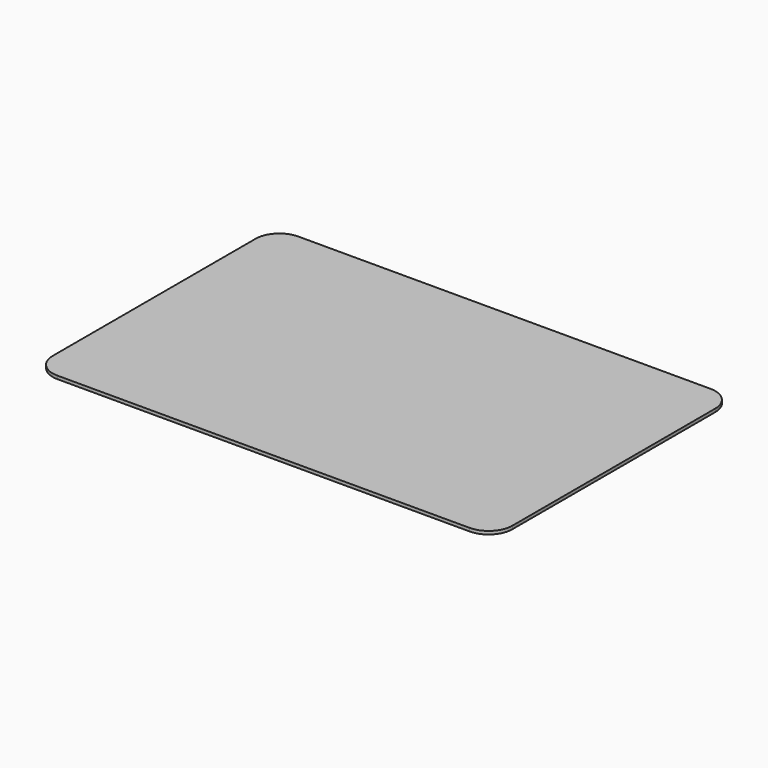
from build123d import *

# Parameters (mm, degrees)
F1_DEPTH = 2


with BuildPart() as f1:
    # F0 (on Top) → F1 (new body)
    with BuildSketch(Plane.XY):
        with BuildLine():
            ThreePointArc((-145, -80), (-140.606602, -90.606602), (-130, -95))
            Line((-130, -95), (130, -95))
            ThreePointArc((130, -95), (140.606602, -90.606602), (145, -80))
            Line((145, -80), (145, 80))
            ThreePointArc((145, 80), (140.606602, 90.606602), (130, 95))
            Line((130, 95), (-130, 95))
            ThreePointArc((-130, 95), (-140.606602, 90.606602), (-145, 80))
            Line((-145, 80), (-145, -80))
        make_face()
        with BuildLine():
            ThreePointArc((-135, -40), (-133.535534, -36.464466), (-130, -35))
            Line((-130, -35), (-94, -35))
            ThreePointArc((-94, -35), (-90.464466, -36.464466), (-89, -40))
            Line((-89, -40), (-89, -80))
            ThreePointArc((-89, -80), (-90.464466, -83.535534), (-94, -85))
            Line((-94, -85), (-130, -85))
            ThreePointArc((-130, -85), (-133.535534, -83.535534), (-135, -80))
            Line((-135, -80), (-135, -40))
        make_face(mode=Mode.SUBTRACT)
        with BuildLine():
            ThreePointArc((-79, -40), (-77.535534, -36.464466), (-74, -35))
            Line((-74, -35), (-38, -35))
            ThreePointArc((-38, -35), (-34.464466, -36.464466), (-33, -40))
            Line((-33, -40), (-33, -80))
            ThreePointArc((-33, -80), (-34.464466, -83.535534), (-38, -85))
            Line((-38, -85), (-74, -85))
            ThreePointArc((-74, -85), (-77.535534, -83.535534), (-79, -80))
            Line((-79, -80), (-79, -40))
        make_face(mode=Mode.SUBTRACT)
        with BuildLine():
            ThreePointArc((-23, -40), (-21.535534, -36.464466), (-18, -35))
            Line((-18, -35), (18, -35))
            ThreePointArc((18, -35), (21.535534, -36.464466), (23, -40))
            Line((23, -40), (23, -80))
            ThreePointArc((23, -80), (21.535534, -83.535534), (18, -85))
            Line((18, -85), (-18, -85))
            ThreePointArc((-18, -85), (-21.535534, -83.535534), (-23, -80))
            Line((-23, -80), (-23, -40))
        make_face(mode=Mode.SUBTRACT)
        with BuildLine():
            ThreePointArc((33, -40), (34.464466, -36.464466), (38, -35))
            Line((38, -35), (74, -35))
            ThreePointArc((74, -35), (77.535534, -36.464466), (79, -40))
            Line((79, -40), (79, -80))
            ThreePointArc((79, -80), (77.535534, -83.535534), (74, -85))
            Line((74, -85), (38, -85))
            ThreePointArc((38, -85), (34.464466, -83.535534), (33, -80))
            Line((33, -80), (33, -40))
        make_face(mode=Mode.SUBTRACT)
        with BuildLine():
            ThreePointArc((89, -40), (90.464466, -36.464466), (94, -35))
            Line((94, -35), (130, -35))
            ThreePointArc((130, -35), (133.535534, -36.464466), (135, -40))
            Line((135, -40), (135, -80))
            ThreePointArc((135, -80), (133.535534, -83.535534), (130, -85))
            Line((130, -85), (94, -85))
            ThreePointArc((94, -85), (90.464466, -83.535534), (89, -80))
            Line((89, -80), (89, -40))
        make_face(mode=Mode.SUBTRACT)
        with BuildLine():
            ThreePointArc((-135, 20), (-133.535534, 23.535534), (-130, 25))
            Line((-130, 25), (-94, 25))
            ThreePointArc((-94, 25), (-90.464466, 23.535534), (-89, 20))
            Line((-89, 20), (-89, -20))
            ThreePointArc((-89, -20), (-90.464466, -23.535534), (-94, -25))
            Line((-94, -25), (-130, -25))
            ThreePointArc((-130, -25), (-133.535534, -23.535534), (-135, -20))
            Line((-135, -20), (-135, 20))
        make_face(mode=Mode.SUBTRACT)
        with BuildLine():
            ThreePointArc((-79, 20), (-77.535534, 23.535534), (-74, 25))
            Line((-74, 25), (-38, 25))
            ThreePointArc((-38, 25), (-34.464466, 23.535534), (-33, 20))
            Line((-33, 20), (-33, -20))
            ThreePointArc((-33, -20), (-34.464466, -23.535534), (-38, -25))
            Line((-38, -25), (-74, -25))
            ThreePointArc((-74, -25), (-77.535534, -23.535534), (-79, -20))
            Line((-79, -20), (-79, 20))
        make_face(mode=Mode.SUBTRACT)
        with BuildLine():
            ThreePointArc((-89, 40), (-90.464466, 36.464466), (-94, 35))
            Line((-94, 35), (-130, 35))
            ThreePointArc((-130, 35), (-133.535534, 36.464466), (-135, 40))
            Line((-135, 40), (-135, 80))
            ThreePointArc((-135, 80), (-133.535534, 83.535534), (-130, 85))
            Line((-130, 85), (-94, 85))
            ThreePointArc((-94, 85), (-90.464466, 83.535534), (-89, 80))
            Line((-89, 80), (-89, 40))
        make_face(mode=Mode.SUBTRACT)
        with BuildLine():
            ThreePointArc((-79, 80), (-77.535534, 83.535534), (-74, 85))
            Line((-74, 85), (-38, 85))
            ThreePointArc((-38, 85), (-34.464466, 83.535534), (-33, 80))
            Line((-33, 80), (-33, 40))
            ThreePointArc((-33, 40), (-34.464466, 36.464466), (-38, 35))
            Line((-38, 35), (-74, 35))
            ThreePointArc((-74, 35), (-77.535534, 36.464466), (-79, 40))
            Line((-79, 40), (-79, 80))
        make_face(mode=Mode.SUBTRACT)
        with BuildLine():
            ThreePointArc((-23, 20), (-21.535534, 23.535534), (-18, 25))
            Line((-18, 25), (18, 25))
            ThreePointArc((18, 25), (21.535534, 23.535534), (23, 20))
            Line((23, 20), (23, -20))
            ThreePointArc((23, -20), (21.535534, -23.535534), (18, -25))
            Line((18, -25), (-18, -25))
            ThreePointArc((-18, -25), (-21.535534, -23.535534), (-23, -20))
            Line((-23, -20), (-23, 20))
        make_face(mode=Mode.SUBTRACT)
        with BuildLine():
            ThreePointArc((33, 20), (34.464466, 23.535534), (38, 25))
            Line((38, 25), (74, 25))
            ThreePointArc((74, 25), (77.535534, 23.535534), (79, 20))
            Line((79, 20), (79, -20))
            ThreePointArc((79, -20), (77.535534, -23.535534), (74, -25))
            Line((74, -25), (38, -25))
            ThreePointArc((38, -25), (34.464466, -23.535534), (33, -20))
            Line((33, -20), (33, 20))
        make_face(mode=Mode.SUBTRACT)
        with BuildLine():
            ThreePointArc((89, 20), (90.464466, 23.535534), (94, 25))
            Line((94, 25), (130, 25))
            ThreePointArc((130, 25), (133.535534, 23.535534), (135, 20))
            Line((135, 20), (135, -20))
            ThreePointArc((135, -20), (133.535534, -23.535534), (130, -25))
            Line((130, -25), (94, -25))
            ThreePointArc((94, -25), (90.464466, -23.535534), (89, -20))
            Line((89, -20), (89, 20))
        make_face(mode=Mode.SUBTRACT)
        with BuildLine():
            ThreePointArc((-23, 80), (-21.535534, 83.535534), (-18, 85))
            Line((-18, 85), (18, 85))
            ThreePointArc((18, 85), (21.535534, 83.535534), (23, 80))
            Line((23, 80), (23, 40))
            ThreePointArc((23, 40), (21.535534, 36.464466), (18, 35))
            Line((18, 35), (-18, 35))
            ThreePointArc((-18, 35), (-21.535534, 36.464466), (-23, 40))
            Line((-23, 40), (-23, 80))
        make_face(mode=Mode.SUBTRACT)
        with BuildLine():
            ThreePointArc((33, 80), (34.464466, 83.535534), (38, 85))
            Line((38, 85), (74, 85))
            ThreePointArc((74, 85), (77.535534, 83.535534), (79, 80))
            Line((79, 80), (79, 40))
            ThreePointArc((79, 40), (77.535534, 36.464466), (74, 35))
            Line((74, 35), (38, 35))
            ThreePointArc((38, 35), (34.464466, 36.464466), (33, 40))
            Line((33, 40), (33, 80))
        make_face(mode=Mode.SUBTRACT)
        with BuildLine():
            ThreePointArc((89, 80), (90.464466, 83.535534), (94, 85))
            Line((94, 85), (130, 85))
            ThreePointArc((130, 85), (133.535534, 83.535534), (135, 80))
            Line((135, 80), (135, 40))
            ThreePointArc((135, 40), (133.535534, 36.464466), (130, 35))
            Line((130, 35), (94, 35))
            ThreePointArc((94, 35), (90.464466, 36.464466), (89, 40))
            Line((89, 40), (89, 80))
        make_face(mode=Mode.SUBTRACT)
        with BuildLine():
            Line((130, -35), (94, -35))
            ThreePointArc((94, -35), (90.464466, -36.464466), (89, -40))
            Line((89, -40), (89, -80))
            ThreePointArc((89, -80), (90.464466, -83.535534), (94, -85))
            Line((94, -85), (130, -85))
            ThreePointArc((130, -85), (133.535534, -83.535534), (135, -80))
            Line((135, -80), (135, -40))
            ThreePointArc((135, -40), (133.535534, -36.464466), (130, -35))
        make_face()
        with BuildLine():
            Line((74, -35), (38, -35))
            ThreePointArc((38, -35), (34.464466, -36.464466), (33, -40))
            Line((33, -40), (33, -80))
            ThreePointArc((33, -80), (34.464466, -83.535534), (38, -85))
            Line((38, -85), (74, -85))
            ThreePointArc((74, -85), (77.535534, -83.535534), (79, -80))
            Line((79, -80), (79, -40))
            ThreePointArc((79, -40), (77.535534, -36.464466), (74, -35))
        make_face()
        with BuildLine():
            Line((130, 25), (94, 25))
            ThreePointArc((94, 25), (90.464466, 23.535534), (89, 20))
            Line((89, 20), (89, -20))
            ThreePointArc((89, -20), (90.464466, -23.535534), (94, -25))
            Line((94, -25), (130, -25))
            ThreePointArc((130, -25), (133.535534, -23.535534), (135, -20))
            Line((135, -20), (135, 20))
            ThreePointArc((135, 20), (133.535534, 23.535534), (130, 25))
        make_face()
        with BuildLine():
            Line((74, 25), (38, 25))
            ThreePointArc((38, 25), (34.464466, 23.535534), (33, 20))
            Line((33, 20), (33, -20))
            ThreePointArc((33, -20), (34.464466, -23.535534), (38, -25))
            Line((38, -25), (74, -25))
            ThreePointArc((74, -25), (77.535534, -23.535534), (79, -20))
            Line((79, -20), (79, 20))
            ThreePointArc((79, 20), (77.535534, 23.535534), (74, 25))
        make_face()
        with BuildLine():
            Line((130, 85), (94, 85))
            ThreePointArc((94, 85), (90.464466, 83.535534), (89, 80))
            Line((89, 80), (89, 40))
            ThreePointArc((89, 40), (90.464466, 36.464466), (94, 35))
            Line((94, 35), (130, 35))
            ThreePointArc((130, 35), (133.535534, 36.464466), (135, 40))
            Line((135, 40), (135, 80))
            ThreePointArc((135, 80), (133.535534, 83.535534), (130, 85))
        make_face()
        with BuildLine():
            Line((74, 85), (38, 85))
            ThreePointArc((38, 85), (34.464466, 83.535534), (33, 80))
            Line((33, 80), (33, 40))
            ThreePointArc((33, 40), (34.464466, 36.464466), (38, 35))
            Line((38, 35), (74, 35))
            ThreePointArc((74, 35), (77.535534, 36.464466), (79, 40))
            Line((79, 40), (79, 80))
            ThreePointArc((79, 80), (77.535534, 83.535534), (74, 85))
        make_face()
        with BuildLine():
            Line((18, 85), (-18, 85))
            ThreePointArc((-18, 85), (-21.535534, 83.535534), (-23, 80))
            Line((-23, 80), (-23, 40))
            ThreePointArc((-23, 40), (-21.535534, 36.464466), (-18, 35))
            Line((-18, 35), (18, 35))
            ThreePointArc((18, 35), (21.535534, 36.464466), (23, 40))
            Line((23, 40), (23, 80))
            ThreePointArc((23, 80), (21.535534, 83.535534), (18, 85))
        make_face()
        with BuildLine():
            Line((18, 25), (-18, 25))
            ThreePointArc((-18, 25), (-21.535534, 23.535534), (-23, 20))
            Line((-23, 20), (-23, -20))
            ThreePointArc((-23, -20), (-21.535534, -23.535534), (-18, -25))
            Line((-18, -25), (18, -25))
            ThreePointArc((18, -25), (21.535534, -23.535534), (23, -20))
            Line((23, -20), (23, 20))
            ThreePointArc((23, 20), (21.535534, 23.535534), (18, 25))
        make_face()
        with BuildLine():
            Line((-38, -35), (-74, -35))
            ThreePointArc((-74, -35), (-77.535534, -36.464466), (-79, -40))
            Line((-79, -40), (-79, -80))
            ThreePointArc((-79, -80), (-77.535534, -83.535534), (-74, -85))
            Line((-74, -85), (-38, -85))
            ThreePointArc((-38, -85), (-34.464466, -83.535534), (-33, -80))
            Line((-33, -80), (-33, -40))
            ThreePointArc((-33, -40), (-34.464466, -36.464466), (-38, -35))
        make_face()
        with BuildLine():
            Line((-38, 25), (-74, 25))
            ThreePointArc((-74, 25), (-77.535534, 23.535534), (-79, 20))
            Line((-79, 20), (-79, -20))
            ThreePointArc((-79, -20), (-77.535534, -23.535534), (-74, -25))
            Line((-74, -25), (-38, -25))
            ThreePointArc((-38, -25), (-34.464466, -23.535534), (-33, -20))
            Line((-33, -20), (-33, 20))
            ThreePointArc((-33, 20), (-34.464466, 23.535534), (-38, 25))
        make_face()
        with BuildLine():
            Line((-38, 85), (-74, 85))
            ThreePointArc((-74, 85), (-77.535534, 83.535534), (-79, 80))
            Line((-79, 80), (-79, 40))
            ThreePointArc((-79, 40), (-77.535534, 36.464466), (-74, 35))
            Line((-74, 35), (-38, 35))
            ThreePointArc((-38, 35), (-34.464466, 36.464466), (-33, 40))
            Line((-33, 40), (-33, 80))
            ThreePointArc((-33, 80), (-34.464466, 83.535534), (-38, 85))
        make_face()
        with BuildLine():
            Line((-130, 35), (-94, 35))
            ThreePointArc((-94, 35), (-90.464466, 36.464466), (-89, 40))
            Line((-89, 40), (-89, 80))
            ThreePointArc((-89, 80), (-90.464466, 83.535534), (-94, 85))
            Line((-94, 85), (-130, 85))
            ThreePointArc((-130, 85), (-133.535534, 83.535534), (-135, 80))
            Line((-135, 80), (-135, 40))
            ThreePointArc((-135, 40), (-133.535534, 36.464466), (-130, 35))
        make_face()
        with BuildLine():
            Line((-94, 25), (-130, 25))
            ThreePointArc((-130, 25), (-133.535534, 23.535534), (-135, 20))
            Line((-135, 20), (-135, -20))
            ThreePointArc((-135, -20), (-133.535534, -23.535534), (-130, -25))
            Line((-130, -25), (-94, -25))
            ThreePointArc((-94, -25), (-90.464466, -23.535534), (-89, -20))
            Line((-89, -20), (-89, 20))
            ThreePointArc((-89, 20), (-90.464466, 23.535534), (-94, 25))
        make_face()
        with BuildLine():
            Line((-94, -35), (-130, -35))
            ThreePointArc((-130, -35), (-133.535534, -36.464466), (-135, -40))
            Line((-135, -40), (-135, -80))
            ThreePointArc((-135, -80), (-133.535534, -83.535534), (-130, -85))
            Line((-130, -85), (-94, -85))
            ThreePointArc((-94, -85), (-90.464466, -83.535534), (-89, -80))
            Line((-89, -80), (-89, -40))
            ThreePointArc((-89, -40), (-90.464466, -36.464466), (-94, -35))
        make_face()
        with BuildLine():
            Line((18, -35), (-18, -35))
            ThreePointArc((-18, -35), (-21.535534, -36.464466), (-23, -40))
            Line((-23, -40), (-23, -80))
            ThreePointArc((-23, -80), (-21.535534, -83.535534), (-18, -85))
            Line((-18, -85), (18, -85))
            ThreePointArc((18, -85), (21.535534, -83.535534), (23, -80))
            Line((23, -80), (23, -40))
            ThreePointArc((23, -40), (21.535534, -36.464466), (18, -35))
        make_face()
    extrude(amount=F1_DEPTH)


solid = f1.part
